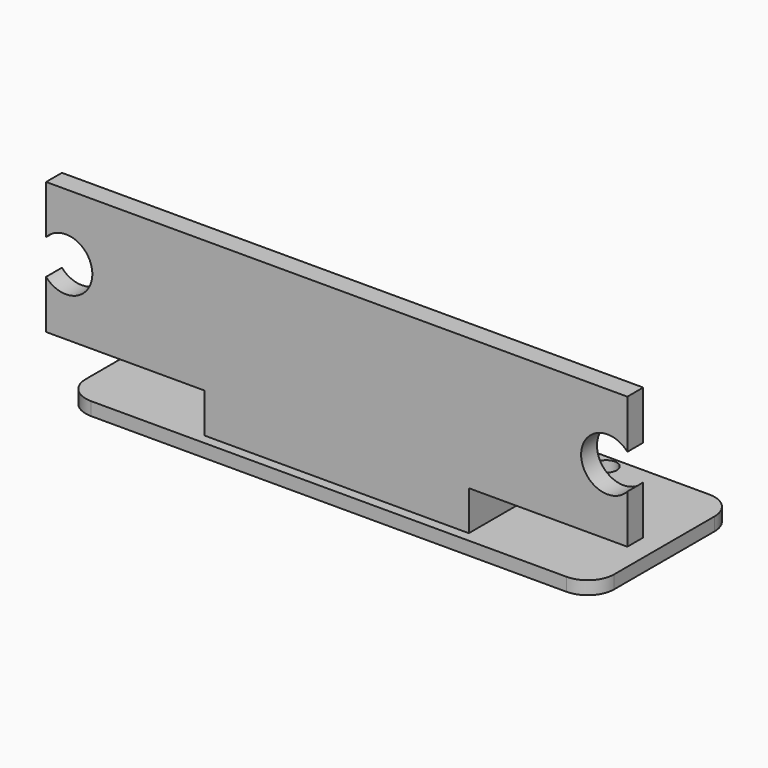
from build123d import *

# Parameters (mm, degrees)
SKETCH001_W     = 40
SKETCH001_H     = 13.5
PAD_DEPTH       = 1
FILLET_R        = 2
SKETCH002_R     = 0.8
POCKET_DEPTH    = 85.45809
SKETCH_W        = 20
SKETCH_H        = 1.5
PAD001_DEPTH    = 3
SKETCH003_W     = 44
SKETCH003_H     = 1.5
PAD002_DEPTH    = 10
SKETCH005_R     = 2
POCKET001_DEPTH = 98.464305
PAD003_DEPTH    = 20


with BuildPart() as part:
    # Sketch001 → Pad (new body)
    with BuildSketch(Plane.XY):
        Rectangle(SKETCH001_W, SKETCH001_H)
    extrude(amount=PAD_DEPTH)

    # Fillet
    fillet_edges = [part.edges().sort_by_distance(p)[0] for p in [
        (20, 6.75, 0.5),
        (20, -6.75, 0.5),
        (-20, -6.75, 0.5),
        (-20, 6.75, 0.5),
    ]]
    fillet(fillet_edges, radius=FILLET_R)

    # Sketch002 (on Face5 of Fillet) → Pocket (cut, through all)
    with BuildSketch(Plane.XY.offset(1)):
        with Locations((-11, 5.75)):
            Circle(SKETCH002_R)
    pocket = extrude(amount=-POCKET_DEPTH, mode=Mode.SUBTRACT)

    # Mirrored: Pocket across Sketch002 V_Axis
    add(pocket.mirror(Plane(origin=(0, 0, 1), x_dir=(0, 0, 1), z_dir=(1, 0, 0))), mode=Mode.SUBTRACT)

    # Sketch (on Face5 of Mirrored) → Pad001 (join)
    with BuildSketch(Plane.XY.offset(1)):
        with Locations((0, -5.25)):
            Rectangle(SKETCH_W, SKETCH_H)
    extrude(amount=PAD001_DEPTH)

    # Sketch003 (on Face17 of Pad001) → Pad002 (join)
    with BuildSketch(Plane.XY.offset(4)):
        with Locations((0, -5.25)):
            Rectangle(SKETCH003_W, SKETCH003_H)
    extrude(amount=PAD002_DEPTH)

    # Sketch005 (on Face17 of Pad002) → Pocket001 (cut, through all)
    with BuildSketch(Plane(origin=(0, -4.5, 0), x_dir=(-1, 0, 0), z_dir=(0, 1, 0))):
        with Locations((-20.5, 9)):
            Circle(SKETCH005_R)
    pocket001 = extrude(amount=-POCKET001_DEPTH, mode=Mode.SUBTRACT)

    # Mirrored001: Pocket001 across Sketch005 V_Axis
    add(pocket001.mirror(Plane(origin=(0, -4.5, 0), x_dir=(0, 1, 0), z_dir=(-1, 0, 0))), mode=Mode.SUBTRACT)

    # Sketch006 (on Face16 of Mirrored001) → Pad003 (join)
    with BuildSketch(Plane(origin=(-10, 0, 0), x_dir=(0, -1, 0), z_dir=(-1, 0, 0))):
        Polygon((4.5, 4), (1.5, 1), (4.5, 1), align=None)
    extrude(amount=-PAD003_DEPTH)


solid = part.part
